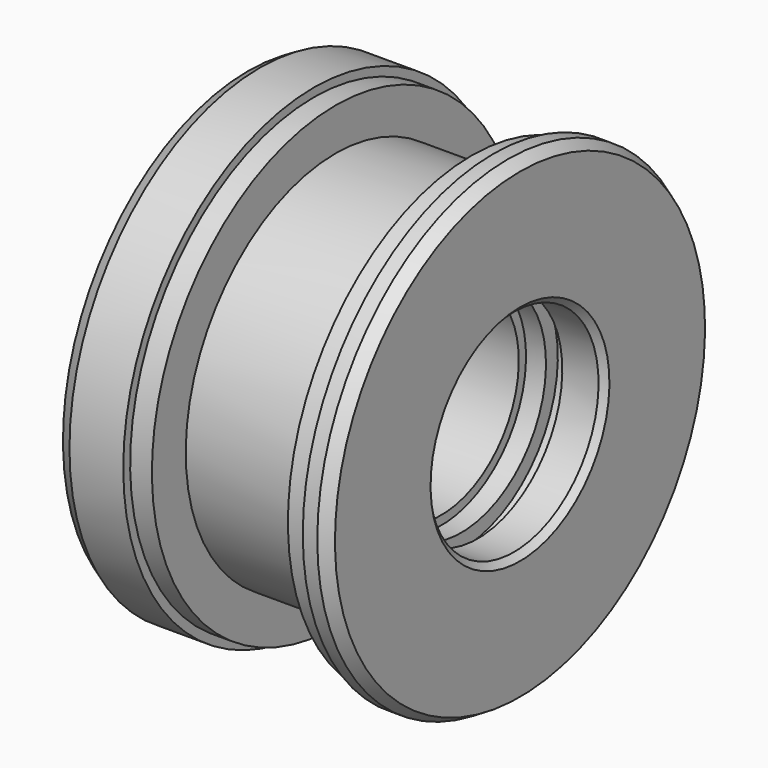
from build123d import *

# Parameters (mm, degrees)
F2_SIZE2 = 1.154701
F2_SIZE  = 2
F3_R     = 2.5
F4_DEPTH = 6
F5_SIZE2 = 1.154701
F5_SIZE  = 2
F6_SIZE  = 1


with BuildPart() as f1:
    # F0 (on Front) → F1 (revolve)
    with BuildSketch(Plane.XZ):
        Polygon((-148.261028, 17.5), (-141.261028, 17.5), (-141.261028, 39.425), (-145.661028, 39.425), (-145.661028, 38), (-149.261028, 38), (-149.261028, 31), (-171.761028, 31), (-171.761028, 38), (-175.361028, 38), (-175.361028, 39.425), (-186.261028, 39.425), (-186.261028, 16), (-154.261028, 16), (-154.261028, 17.5), (-150.961028, 17.5), (-150.961028, 19.95), (-148.261028, 19.95), align=None)
    revolve(axis=Axis((28.175471, 0, 0), (1, 0, 0)))

    # F2
    f2_edges = [f1.edges().sort_by_distance(p)[0] for p in [
        (-186.261028, 0, -39.425),
    ]]
    chamfer(f2_edges, length=F2_SIZE, length2=F2_SIZE2)

    # F3 (on face) → F4 (cut)
    with BuildSketch(Plane(origin=(-186.261028, 0, 0), x_dir=(0, -1, 0), z_dir=(-1, 0, 0))):
        with Locations((0, 27)):
            Circle(F3_R)
        with Locations((0, -27)):
            Circle(F3_R)
    extrude(amount=-F4_DEPTH, mode=Mode.SUBTRACT)

    # F5
    f5_edges = [f1.edges().sort_by_distance(p)[0] for p in [
        (-141.261028, 0, -39.425),
    ]]
    chamfer(f5_edges, length=F5_SIZE, length2=F5_SIZE2)

    # F6
    f6_edges = [f1.edges().sort_by_distance(p)[0] for p in [
        (-186.261028, 0, -16),
        (-141.261028, 0, -17.5),
    ]]
    chamfer(f6_edges, length=F6_SIZE)


solid = f1.part
